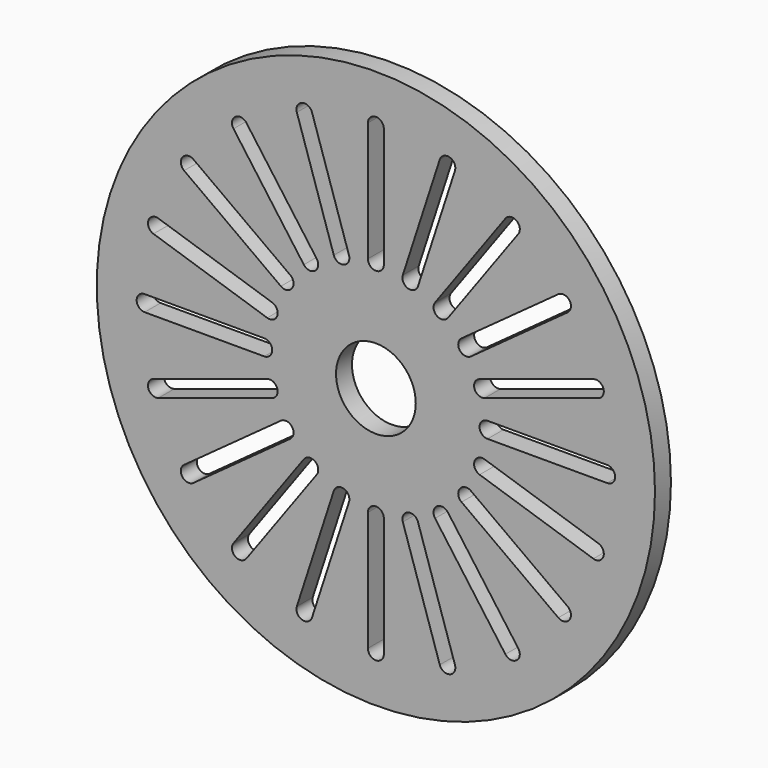
from build123d import *

# Parameters (mm, degrees)
F0_R     = 35
F0_R_2   = 5
F1_DEPTH = 1.25


with BuildPart() as f1:
    # F0 (on Front) → F1 (new body, symmetric)
    with BuildSketch(Plane.XZ):
        Circle(F0_R)
        with BuildLine():
            Line((-3.375181405, -13.6238082225), (-8.0104363206, -27.8896559669))
            ThreePointArc((-8.0104363206, -27.8896559669), (-9.2705098312, -28.5316954889), (-9.9125493532, -27.2716219782))
            Line((-9.9125493532, -27.2716219782), (-5.2772944375, -13.0057742338))
            ThreePointArc((-5.2772944375, -13.0057742338), (-4.0172209269, -12.3637347118), (-3.375181405, -13.6238082225))
        make_face(mode=Mode.SUBTRACT)
        with BuildLine():
            Line((-13.0057742338, -5.2772944375), (-27.2716219782, -9.9125493532))
            ThreePointArc((-27.2716219782, -9.9125493532), (-28.5316954889, -9.2705098312), (-27.8896559669, -8.0104363206))
            Line((-27.8896559669, -8.0104363206), (-13.6238082225, -3.375181405))
            ThreePointArc((-13.6238082225, -3.375181405), (-12.3637347118, -4.0172209269), (-13.0057742338, -5.2772944375))
        make_face(mode=Mode.SUBTRACT)
        with BuildLine():
            Line((-7.4199765377, -11.9140231735), (-16.2367553221, -24.0492780892))
            ThreePointArc((-16.2367553221, -24.0492780892), (-17.6335575688, -24.2705098312), (-17.8547893109, -22.8737075846))
            Line((-17.8547893109, -22.8737075846), (-9.0380105265, -10.738452669))
            ThreePointArc((-9.0380105265, -10.738452669), (-7.6412082798, -10.5172209269), (-7.4199765377, -11.9140231735))
        make_face(mode=Mode.SUBTRACT)
        with BuildLine():
            Line((-10.738452669, -9.0380105265), (-22.8737075846, -17.8547893109))
            ThreePointArc((-22.8737075846, -17.8547893109), (-24.2705098312, -17.6335575688), (-24.0492780892, -16.2367553221))
            Line((-24.0492780892, -16.2367553221), (-11.9140231735, -7.4199765377))
            ThreePointArc((-11.9140231735, -7.4199765377), (-10.5172209269, -7.6412082798), (-10.738452669, -9.0380105265))
        make_face(mode=Mode.SUBTRACT)
        with BuildLine():
            Line((1, -14), (1, -29))
            ThreePointArc((1, -29), (0, -30), (-1, -29))
            Line((-1, -29), (-1, -14))
            ThreePointArc((-1, -14), (0, -13), (1, -14))
        make_face(mode=Mode.SUBTRACT)
        with BuildLine():
            Line((5.2772944375, -13.0057742338), (9.9125493532, -27.2716219782))
            ThreePointArc((9.9125493532, -27.2716219782), (9.2705098312, -28.5316954889), (8.0104363206, -27.8896559669))
            Line((8.0104363206, -27.8896559669), (3.375181405, -13.6238082225))
            ThreePointArc((3.375181405, -13.6238082225), (4.0172209269, -12.3637347118), (5.2772944375, -13.0057742338))
        make_face(mode=Mode.SUBTRACT)
        with BuildLine():
            Line((9.0380105265, -10.738452669), (17.8547893109, -22.8737075846))
            ThreePointArc((17.8547893109, -22.8737075846), (17.6335575688, -24.2705098312), (16.2367553221, -24.0492780892))
            Line((16.2367553221, -24.0492780892), (7.4199765377, -11.9140231735))
            ThreePointArc((7.4199765377, -11.9140231735), (7.6412082798, -10.5172209269), (9.0380105265, -10.738452669))
        make_face(mode=Mode.SUBTRACT)
        with BuildLine():
            Line((11.9140231735, -7.4199765377), (24.0492780892, -16.2367553221))
            ThreePointArc((24.0492780892, -16.2367553221), (24.2705098312, -17.6335575688), (22.8737075846, -17.8547893109))
            Line((22.8737075846, -17.8547893109), (10.738452669, -9.0380105265))
            ThreePointArc((10.738452669, -9.0380105265), (10.5172209269, -7.6412082798), (11.9140231735, -7.4199765377))
        make_face(mode=Mode.SUBTRACT)
        with BuildLine():
            Line((13.6238082225, -3.375181405), (27.8896559669, -8.0104363206))
            ThreePointArc((27.8896559669, -8.0104363206), (28.5316954889, -9.2705098312), (27.2716219782, -9.9125493532))
            Line((27.2716219782, -9.9125493532), (13.0057742338, -5.2772944375))
            ThreePointArc((13.0057742338, -5.2772944375), (12.3637347118, -4.0172209269), (13.6238082225, -3.375181405))
        make_face(mode=Mode.SUBTRACT)
        with BuildLine():
            Line((-14, -1), (-29, -1))
            ThreePointArc((-29, -1), (-30, 0), (-29, 1))
            Line((-29, 1), (-14, 1))
            ThreePointArc((-14, 1), (-13, 0), (-14, -1))
        make_face(mode=Mode.SUBTRACT)
        with BuildLine():
            Line((-13.6238082225, 3.375181405), (-27.8896559669, 8.0104363206))
            ThreePointArc((-27.8896559669, 8.0104363206), (-28.5316954889, 9.2705098312), (-27.2716219782, 9.9125493532))
            Line((-27.2716219782, 9.9125493532), (-13.0057742338, 5.2772944375))
            ThreePointArc((-13.0057742338, 5.2772944375), (-12.3637347118, 4.0172209269), (-13.6238082225, 3.375181405))
        make_face(mode=Mode.SUBTRACT)
        with BuildLine():
            Line((-11.9140231735, 7.4199765377), (-24.0492780892, 16.2367553221))
            ThreePointArc((-24.0492780892, 16.2367553221), (-24.2705098312, 17.6335575688), (-22.8737075846, 17.8547893109))
            Line((-22.8737075846, 17.8547893109), (-10.738452669, 9.0380105265))
            ThreePointArc((-10.738452669, 9.0380105265), (-10.5172209269, 7.6412082798), (-11.9140231735, 7.4199765377))
        make_face(mode=Mode.SUBTRACT)
        with BuildLine():
            Line((-9.0380105265, 10.738452669), (-17.8547893109, 22.8737075846))
            ThreePointArc((-17.8547893109, 22.8737075846), (-17.6335575688, 24.2705098312), (-16.2367553221, 24.0492780892))
            Line((-16.2367553221, 24.0492780892), (-7.4199765377, 11.9140231735))
            ThreePointArc((-7.4199765377, 11.9140231735), (-7.6412082798, 10.5172209269), (-9.0380105265, 10.738452669))
        make_face(mode=Mode.SUBTRACT)
        with BuildLine():
            Line((-5.2772944375, 13.0057742338), (-9.9125493532, 27.2716219782))
            ThreePointArc((-9.9125493532, 27.2716219782), (-9.2705098312, 28.5316954889), (-8.0104363206, 27.8896559669))
            Line((-8.0104363206, 27.8896559669), (-3.375181405, 13.6238082225))
            ThreePointArc((-3.375181405, 13.6238082225), (-4.0172209269, 12.3637347118), (-5.2772944375, 13.0057742338))
        make_face(mode=Mode.SUBTRACT)
        Circle(F0_R_2, mode=Mode.SUBTRACT)
        with BuildLine():
            Line((10.738452669, 9.0380105265), (22.8737075846, 17.8547893109))
            ThreePointArc((22.8737075846, 17.8547893109), (24.2705098312, 17.6335575688), (24.0492780892, 16.2367553221))
            Line((24.0492780892, 16.2367553221), (11.9140231735, 7.4199765377))
            ThreePointArc((11.9140231735, 7.4199765377), (10.5172209269, 7.6412082798), (10.738452669, 9.0380105265))
        make_face(mode=Mode.SUBTRACT)
        with BuildLine():
            Line((7.4199765377, 11.9140231735), (16.2367553221, 24.0492780892))
            ThreePointArc((16.2367553221, 24.0492780892), (17.6335575688, 24.2705098312), (17.8547893109, 22.8737075846))
            Line((17.8547893109, 22.8737075846), (9.0380105265, 10.738452669))
            ThreePointArc((9.0380105265, 10.738452669), (7.6412082798, 10.5172209269), (7.4199765377, 11.9140231735))
        make_face(mode=Mode.SUBTRACT)
        with BuildLine():
            Line((14, 1), (29, 1))
            ThreePointArc((29, 1), (30, 0), (29, -1))
            Line((29, -1), (14, -1))
            ThreePointArc((14, -1), (13, 0), (14, 1))
        make_face(mode=Mode.SUBTRACT)
        with BuildLine():
            Line((13.0057742338, 5.2772944375), (27.2716219782, 9.9125493532))
            ThreePointArc((27.2716219782, 9.9125493532), (28.5316954889, 9.2705098312), (27.8896559669, 8.0104363206))
            Line((27.8896559669, 8.0104363206), (13.6238082225, 3.375181405))
            ThreePointArc((13.6238082225, 3.375181405), (12.3637347118, 4.0172209269), (13.0057742338, 5.2772944375))
        make_face(mode=Mode.SUBTRACT)
        with BuildLine():
            Line((-1, 14), (-1, 29))
            ThreePointArc((-1, 29), (0, 30), (1, 29))
            Line((1, 29), (1, 14))
            ThreePointArc((1, 14), (0, 13), (-1, 14))
        make_face(mode=Mode.SUBTRACT)
        with BuildLine():
            Line((3.375181405, 13.6238082225), (8.0104363206, 27.8896559669))
            ThreePointArc((8.0104363206, 27.8896559669), (9.2705098312, 28.5316954889), (9.9125493532, 27.2716219782))
            Line((9.9125493532, 27.2716219782), (5.2772944375, 13.0057742338))
            ThreePointArc((5.2772944375, 13.0057742338), (4.0172209269, 12.3637347118), (3.375181405, 13.6238082225))
        make_face(mode=Mode.SUBTRACT)
    extrude(amount=F1_DEPTH, both=True)


solid = f1.part
